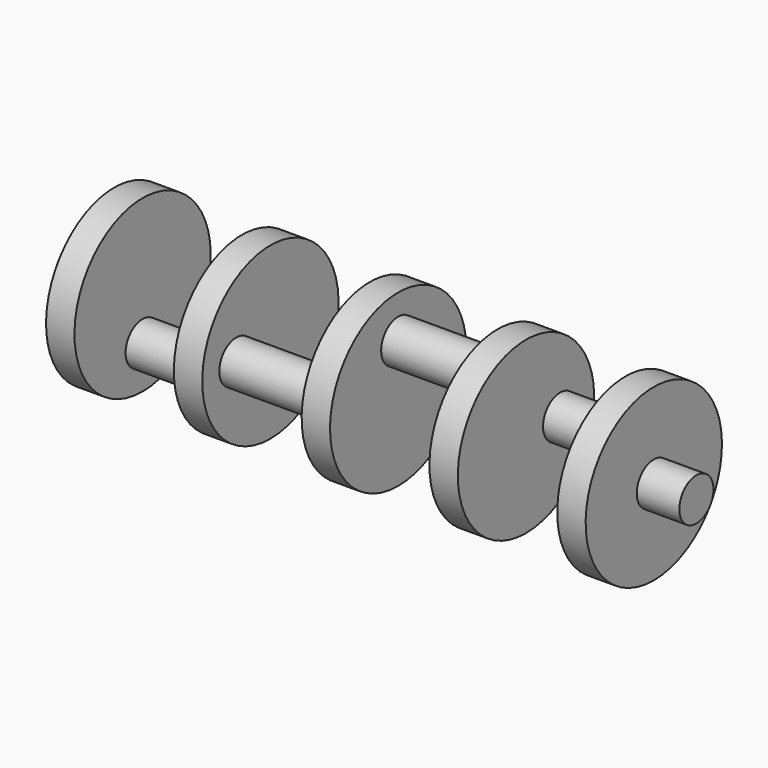
from build123d import *

# Parameters (mm, degrees)
F0_W     = 12.7
F0_H     = 38.1
F0_W_2   = 6.35
F2_R     = 9.525
F3_DEPTH = 44.45
F4_R     = 9.525
F5_DEPTH = 44.45
F6_R     = 9.525
F7_DEPTH = 44.45
F8_R     = 9.525
F9_DEPTH = 44.45


with BuildPart() as f1:
    # F0 (on Front) → F1 (revolve)
    with BuildSketch(Plane.XZ):
        Polygon((-107.95, 0), (-139.7, 0), (-139.7, -9.525), (-120.65, -9.525), (-120.65, -38.1), (-107.95, -38.1), align=None)
        with Locations((-57.15, -19.05)):
            Rectangle(F0_W, F0_H)
        with Locations((-3.175, -19.05)):
            Rectangle(F0_W_2, F0_H)
        with Locations((3.175, -19.05)):
            Rectangle(F0_W_2, F0_H)
        with Locations((57.15, -19.05)):
            Rectangle(F0_W, F0_H)
        Polygon((107.95, 0), (107.95, -38.1), (120.65, -38.1), (120.65, -9.525), (139.7, -9.525), (139.7, 0), align=None)
    revolve(axis=Axis((14.184596, 0, 0), (1, 0, 0)))

    # F2 (on face) → F3 (join, through all)
    with BuildSketch(Plane.YZ.offset(-107.95)):
        with Locations((0, -19.05)):
            Circle(F2_R)
    extrude(amount=F3_DEPTH)

    # F4 (on face) → F5 (join, through all)
    with BuildSketch(Plane.YZ.offset(-50.8)):
        with Locations((-19.05, 0)):
            Circle(F4_R)
    extrude(amount=F5_DEPTH)

    # F6 (on face) → F7 (join, through all)
    with BuildSketch(Plane.YZ.offset(6.35)):
        with Locations((0, 19.05)):
            Circle(F6_R)
    extrude(amount=F7_DEPTH)

    # F8 (on face) → F9 (join, through all)
    with BuildSketch(Plane.YZ.offset(63.5)):
        with Locations((19.05, 0)):
            Circle(F8_R)
    extrude(amount=F9_DEPTH)


solid = f1.part
